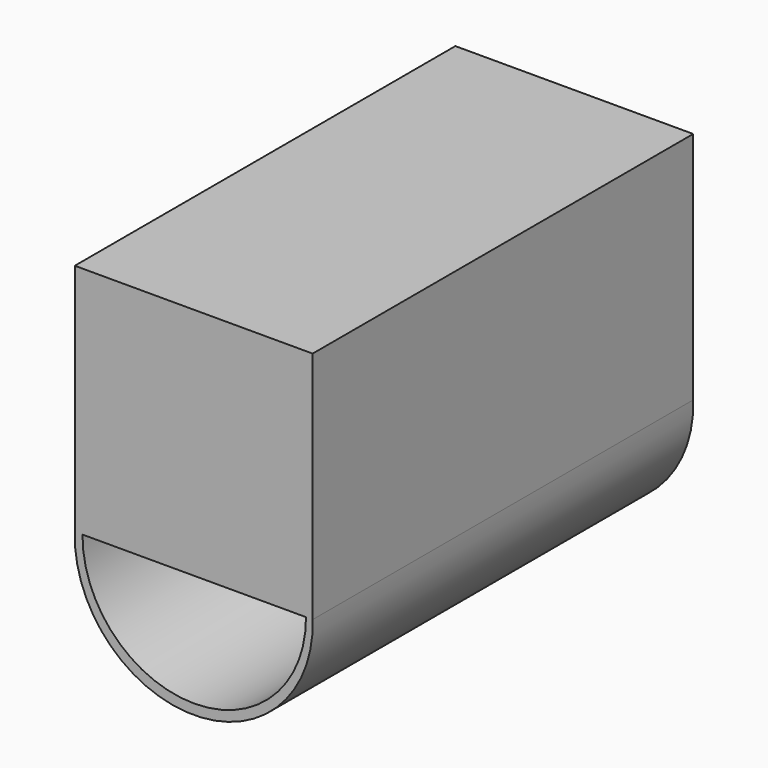
from build123d import *

# Parameters (mm, degrees)
F0_W     = 63.5
F0_H     = 63.5
F1_DEPTH = 127
F2_R     = 31.765228
F3_DEPTH = 127
F5_DEPTH = 152.4


with BuildPart() as f1:
    # F0 (on Front) → F1 (new body)
    with BuildSketch(Plane.XZ):
        Rectangle(F0_W, F0_H)
    extrude(amount=F1_DEPTH)

    # F2 (on Front) → F3 (join)
    with BuildSketch(Plane.XZ):
        with Locations((0, -31.745933)):
            Circle(F2_R)
    extrude(amount=F3_DEPTH)

    # F4 (on face) → F5 (cut)
    with BuildSketch(Plane(origin=(0, 0, 0), x_dir=(-1, 0, 0), z_dir=(0, 1, 0))):
        with BuildLine():
            Line((29.699003, -30.762452), (-29.970478, -30.762452))
            ThreePointArc((-29.970478, -30.762452), (-0.135737, -60.78653), (29.699003, -30.762452))
        make_face()
    extrude(amount=-F5_DEPTH, mode=Mode.SUBTRACT)


solid = f1.part
